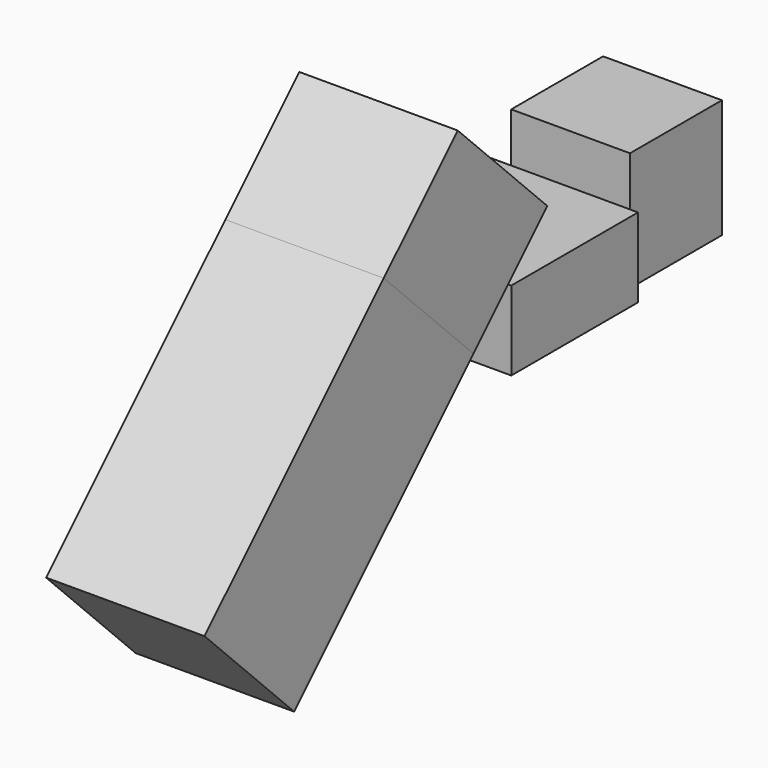
from build123d import *

# Parameters (mm, degrees)
F3_W      = 40
F3_H      = 80
F4_DEPTH  = 20
F5_W      = 40
F5_H      = 40
F6_DEPTH  = 20
F4_FACE_W = 40
F4_FACE_H = 40
F7_DEPTH  = 33
F9_DEPTH  = 30


with BuildPart() as f4:
    # F3 (on face) → F4 (new body, symmetric)
    with BuildSketch(Plane(origin=(0, -1.421282, 1.421282), x_dir=(1, 0, 0), z_dir=(0, -0.707107, 0.707107))):
        with Locations((0, -8.271298)):
            Rectangle(F3_W, F3_H)
    extrude(amount=F4_DEPTH, both=True)


with BuildPart() as f6:
    # F5 (on Top) → F6 (new body)
    with BuildSketch(Plane.XY):
        with Locations((0, 67.105919)):
            Rectangle(F5_W, F5_H)
    extrude(amount=F6_DEPTH)


with BuildPart() as f7:
    # F4_face (on face) → F7 (new body)
    with BuildSketch(Plane(origin=(0, 21.014298, 23.856862), x_dir=(-1, 0, 0), z_dir=(0, 0.707107, 0.707107))):
        Rectangle(F4_FACE_W, F4_FACE_H)
    extrude(amount=F7_DEPTH)


with BuildPart() as f9:
    # F8 (on Top) → F9 (new body)
    with BuildSketch(Plane.XY):
        Polygon((15, 90.830199), (15, 119.830199), (-15, 119.830199), (-15, 90.830199), (0, 90.830199), align=None)
    extrude(amount=F9_DEPTH)


solid = Compound([f4.part, f6.part, f7.part, f9.part])
